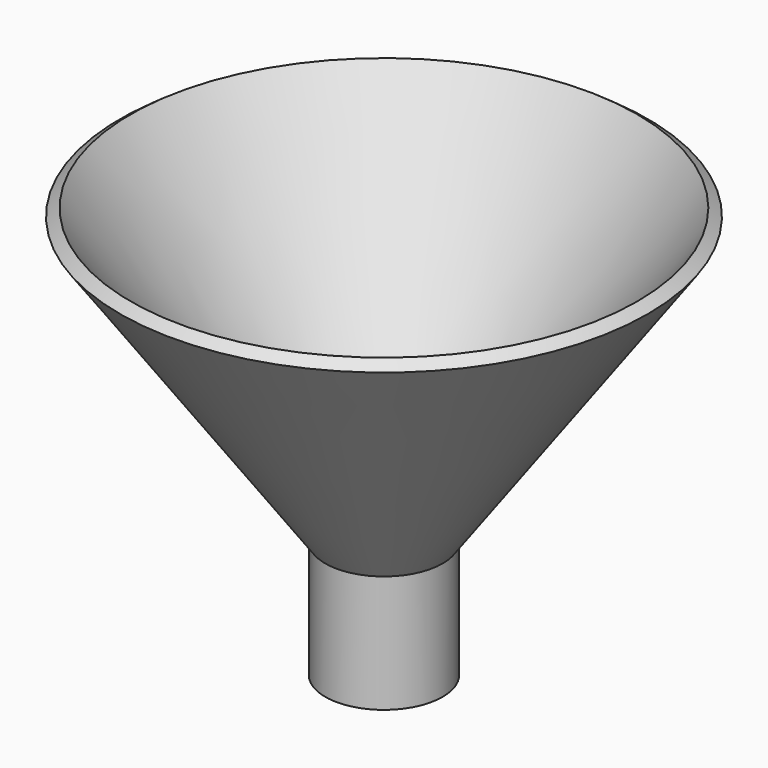
from build123d import *

# Parameters (mm, degrees)
F2_R     = 11.140873
F3_DEPTH = 50.8


with BuildPart() as f1:
    # F0 (on Front) → F1 (revolve)
    with BuildSketch(Plane.XZ):
        Polygon((-3.478555, 0), (0, 0), (44.387943, 61.936665), (42.089761, 63.583696), align=None)
        Polygon((0, -25.4), (0, 0), (-3.478555, 0), (-12.7, 0), (-12.7, -25.4), align=None)
    revolve(axis=Axis((-12.7, 0, -12.7), (0, 0, 1)))

    # F2 (on face) → F3 (cut)
    with BuildSketch(Plane(origin=(0, 0, -25.4), x_dir=(1, 0, 0), z_dir=(0, 0, -1))):
        with Locations((-12.7, 0)):
            Circle(F2_R)
    extrude(amount=-F3_DEPTH, mode=Mode.SUBTRACT)


solid = f1.part
